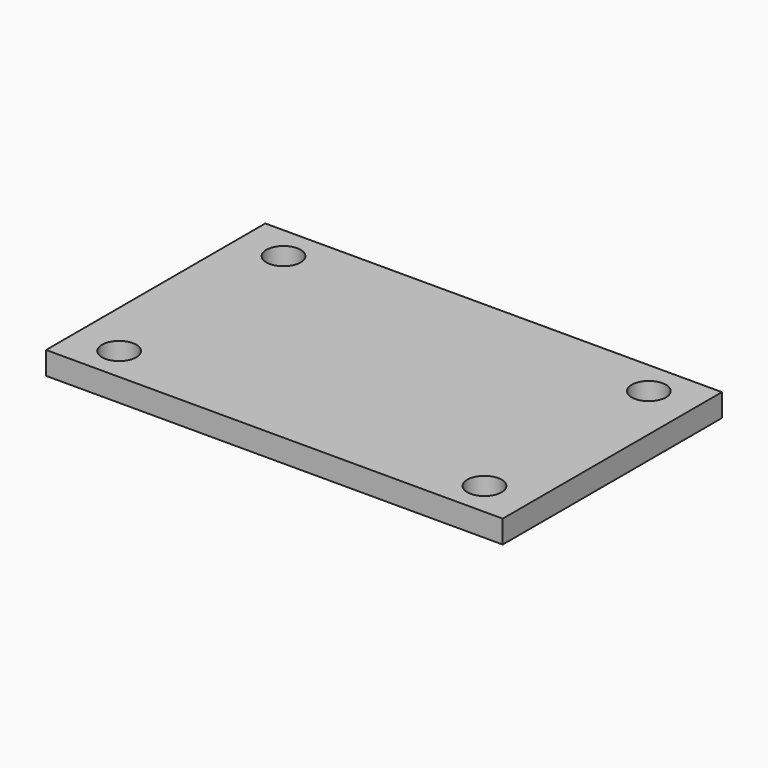
from build123d import *

# Parameters (mm, degrees)
F0_W     = 40
F0_H     = 24
F1_DEPTH = 2
F2_R     = 1.5
F3_DEPTH = 25


with BuildPart() as f1:
    # F0 (on Top) → F1 (new body)
    with BuildSketch(Plane.XY):
        Rectangle(F0_W, F0_H)
    extrude(amount=F1_DEPTH)

    # F2 (on Top) → F3 (cut)
    with BuildSketch(Plane.XY):
        with Locations((-16, -9)):
            Circle(F2_R)
        with Locations((16, -9)):
            Circle(F2_R)
        with Locations((16, 9)):
            Circle(F2_R)
        with Locations((-16, 9)):
            Circle(F2_R)
    extrude(amount=F3_DEPTH, mode=Mode.SUBTRACT)


solid = f1.part
